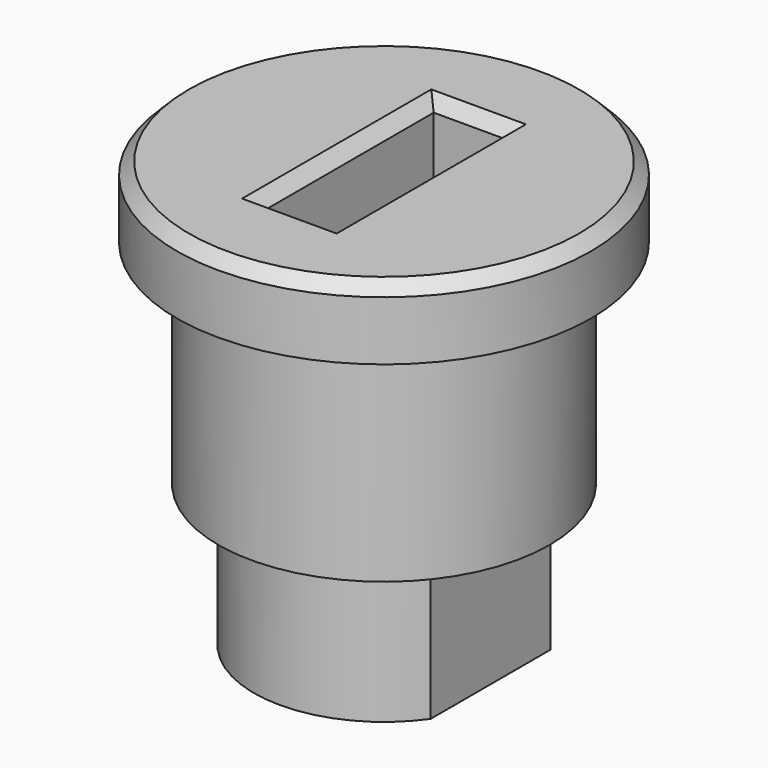
from build123d import *

# Parameters (mm, degrees)
F0_R     = 8.75
F3_DEPTH = 3
F1_R     = 7
F4_DEPTH = 9
F5_DEPTH = 15
F6_W     = 3
F6_H     = 9
F7_DEPTH = 20
F8_SIZE  = 0.5


with BuildPart() as f3:
    # F0 (on Top) → F3 (new body)
    with BuildSketch(Plane.XY):
        Circle(F0_R)
    extrude(amount=F3_DEPTH)

    # F1 (on Top) → F4 (join)
    with BuildSketch(Plane.XY):
        Circle(F1_R)
    extrude(amount=-F4_DEPTH)

    # F2 (on Top) → F5 (join)
    with BuildSketch(Plane.XY):
        with BuildLine():
            Line((4.5, -3.1622776602), (4.5, 3.1622776602))
            ThreePointArc((4.5, 3.1622776602), (0, 5.5), (-4.5, 3.1622776602))
            Line((-4.5, 3.1622776602), (-4.5, -3.1622776602))
            ThreePointArc((-4.5, -3.1622776602), (0, -5.5), (4.5, -3.1622776602))
        make_face()
    extrude(amount=-F5_DEPTH)

    # F6 (on Top) → F7 (cut, symmetric)
    with BuildSketch(Plane.XY):
        Rectangle(F6_W, F6_H)
    extrude(amount=F7_DEPTH, both=True, mode=Mode.SUBTRACT)

    # F8
    f8_edges = [f3.edges().sort_by_distance(p)[0] for p in [
        (-8.75, 0, 3),
        (-1.5, 0, 3),
        (0, -4.5, 3),
        (1.5, 0, 3),
        (0, 4.5, 3),
    ]]
    chamfer(f8_edges, length=F8_SIZE)


solid = f3.part
